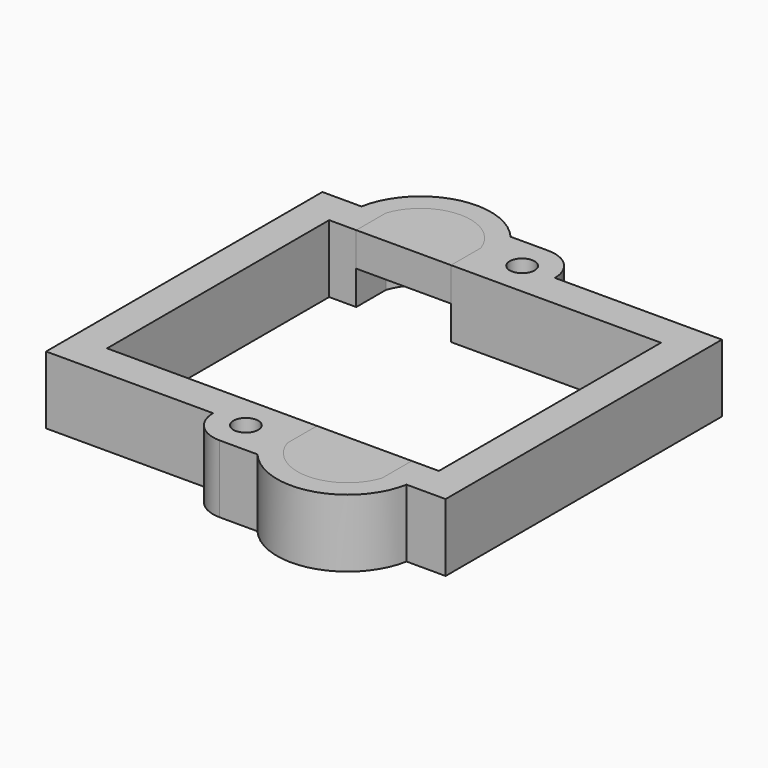
from build123d import *

# Parameters (mm, degrees)
F2_R     = 1.8375
F0_DEPTH = 10
F1_DEPTH = 5


with BuildPart() as f0:
    # F2 (on Top) → F0 (new body)
    with BuildSketch(Plane.XY):
        with BuildLine():
            Line((29.5, -25.5), (29.5, 25.5))
            Line((29.5, 25.5), (6.75, 25.5))
            Line((6.75, 25.5), (4.8375, 25.5))
            ThreePointArc((4.8375, 25.5), (3.420629, 28.920629), (0, 30.3375))
            Line((0, 30.3375), (-5.577494, 30.3375))
            ThreePointArc((-5.577494, 30.3375), (-16.178747, 33.649095), (-23.724969, 25.5))
            Line((-23.724969, 25.5), (-29.5, 25.5))
            Line((-29.5, 25.5), (-29.5, -25.5))
            Line((-29.5, -25.5), (-10.75, -25.5))
            Line((-10.75, -25.5), (-4.8375, -25.5))
            ThreePointArc((-4.8375, -25.5), (-3.420629, -28.920629), (0, -30.3375))
            Line((0, -30.3375), (5.577494, -30.3375))
            ThreePointArc((5.577494, -30.3375), (16.178747, -33.649095), (23.724969, -25.5))
            Line((23.724969, -25.5), (29.5, -25.5))
        make_face()
        with Locations((0, -25.5)):
            Circle(F2_R, mode=Mode.SUBTRACT)
        with BuildLine():
            Line((-6.5, 20.5), (24.5, 20.5))
            Line((24.5, 20.5), (24.5, -20.5))
            Line((24.5, -20.5), (20.5, -20.5))
            Line((20.5, -20.5), (20.5, -26))
            ThreePointArc((20.5, -26), (13.5, -31), (6.5, -26))
            Line((6.5, -26), (6.5, -20.5))
            Line((6.5, -20.5), (-24.5, -20.5))
            Line((-24.5, -20.5), (-24.5, 20.5))
            Line((-24.5, 20.5), (-20.5, 20.5))
            Line((-20.5, 20.5), (-20.5, 26))
            ThreePointArc((-20.5, 26), (-13.5, 31), (-6.5, 26))
            Line((-6.5, 26), (-6.5, 20.5))
        make_face(mode=Mode.SUBTRACT)
        with Locations((0, 25.5)):
            Circle(F2_R, mode=Mode.SUBTRACT)
    extrude(amount=-F0_DEPTH)


with BuildPart() as f1:
    # F2 (on Top) → F1 (new body)
    with BuildSketch(Plane.XY):
        with BuildLine():
            Line((-20.5, 20.5), (-6.5, 20.5))
            Line((-6.5, 20.5), (-6.5, 26))
            ThreePointArc((-6.5, 26), (-13.5, 31), (-20.5, 26))
            Line((-20.5, 26), (-20.5, 20.5))
        make_face()
        with BuildLine():
            Line((20.5, -26), (20.5, -20.5))
            Line((20.5, -20.5), (6.5, -20.5))
            Line((6.5, -20.5), (6.5, -26))
            ThreePointArc((6.5, -26), (13.5, -31), (20.5, -26))
        make_face()
    extrude(amount=-F1_DEPTH)


solid = Compound([f0.part, f1.part])
